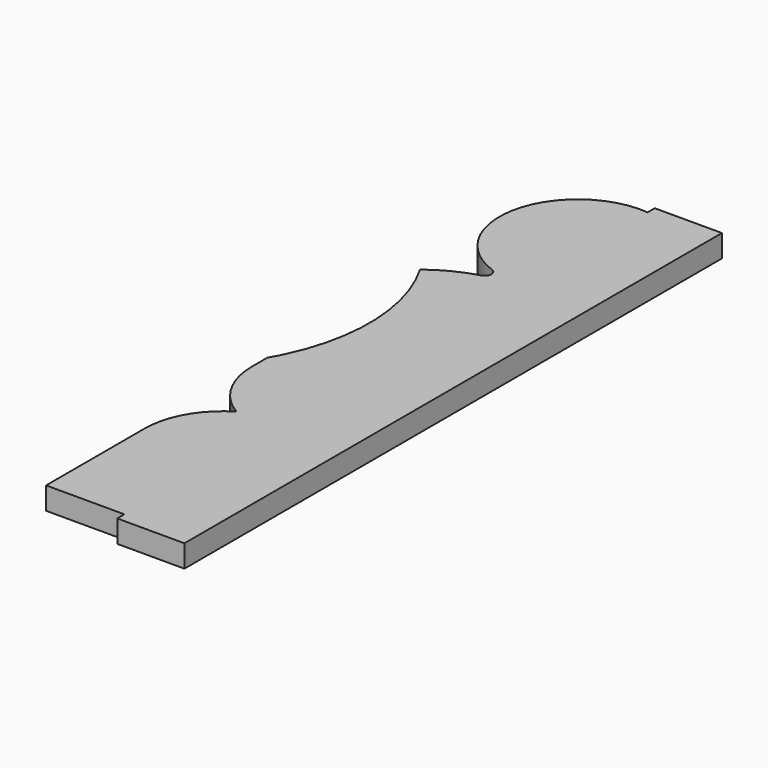
from build123d import *

# Parameters (mm, degrees)
F1_DEPTH = 5


with BuildPart() as f1:
    # F0 (on Top) → F1 (new body)
    with BuildSketch(Plane.XY):
        with BuildLine():
            Line((-17.5, 0), (0, 0))
            Line((0, 0), (0, 128.654855))
            Line((0, 128.654855), (0, 146.075832))
            ThreePointArc((0, 146.075832), (-15.971755, 138.727485), (-17.5, 121.21293))
            ThreePointArc((-17.5, 121.21293), (-13.467707, 115.73757), (-7.652815, 112.212517))
            ThreePointArc((-7.652815, 112.212517), (-6.664225, 110.740832), (-7.762637, 109.349193))
            ThreePointArc((-7.762637, 109.349193), (-12.875909, 107.357911), (-17.5, 104.403503))
            ThreePointArc((-17.5, 104.403503), (-11.796165, 84.899955), (-15.822386, 64.982333))
            ThreePointArc((-15.822386, 64.982333), (-17.075447, 61.336897), (-17.5, 57.505563))
            ThreePointArc((-17.5, 57.505563), (-15.225923, 48.878786), (-8.994711, 42.494061))
            ThreePointArc((-8.994711, 42.494061), (-15.225923, 36.109337), (-17.5, 27.48256))
            Line((-17.5, 27.48256), (-17.5, 0))
        make_face()
        Polygon((0, 128.654855), (0, 0), (0, -2), (15, -2), (15, 148.075832), (0, 148.075832), (0, 146.075832), align=None)
        with BuildLine():
            Line((-17.5, 61.790957), (-17.5, 57.505563))
            ThreePointArc((-17.5, 57.505563), (-17.075447, 61.336897), (-15.822386, 64.982333))
            ThreePointArc((-15.822386, 64.982333), (-16.627255, 63.368805), (-17.5, 61.790957))
        make_face()
    extrude(amount=F1_DEPTH)


solid = f1.part
